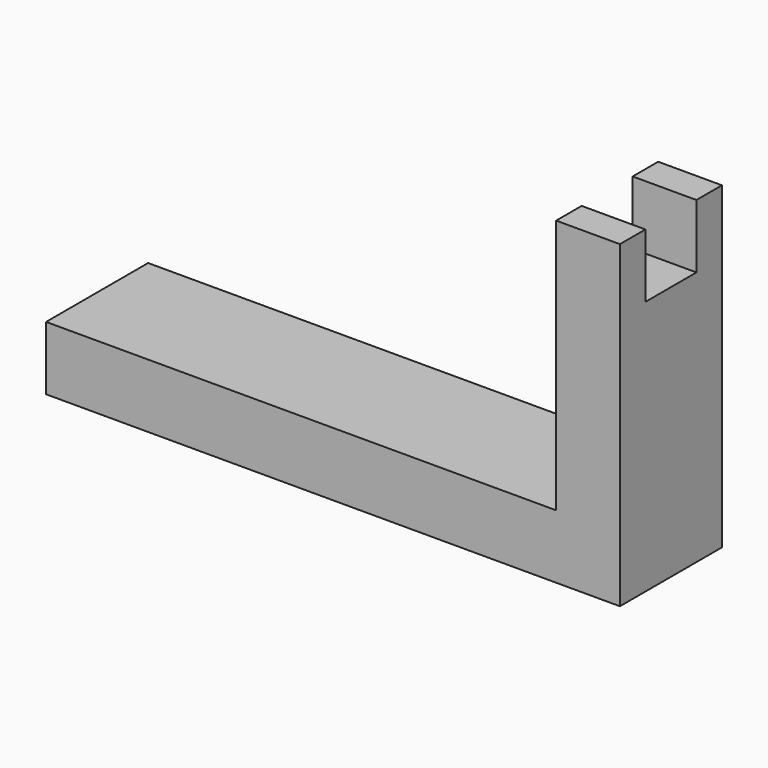
from build123d import *

# Parameters (mm, degrees)
BOX_W     = 20
BOX_H     = 10
BOX_DEPTH = 10
PAD_DEPTH = 20


with BuildPart() as cubo:
    # Box → Box (new body)
    with BuildSketch(Plane(origin=(76, 5, 40), x_dir=(1, 0, 0), z_dir=(0, 0, 1))):
        with Locations((10, 5)):
            Rectangle(BOX_W, BOX_H)
    extrude(amount=BOX_DEPTH)


with BuildPart() as soporte:
    # Sketch → Pad (new body)
    with BuildSketch(Plane.XZ):
        Polygon((0, 0), (90, 0), (90, 50), (80, 50), (80, 10), (0, 10), align=None)
    extrude(amount=PAD_DEPTH)


with BuildPart() as soporte_1:
    # Body placement: moved
    add(soporte.part.moved(Location((0, 20, 0))))

    # Cut: cut Cubo
    add(cubo.part, mode=Mode.SUBTRACT)


solid = soporte_1.part
